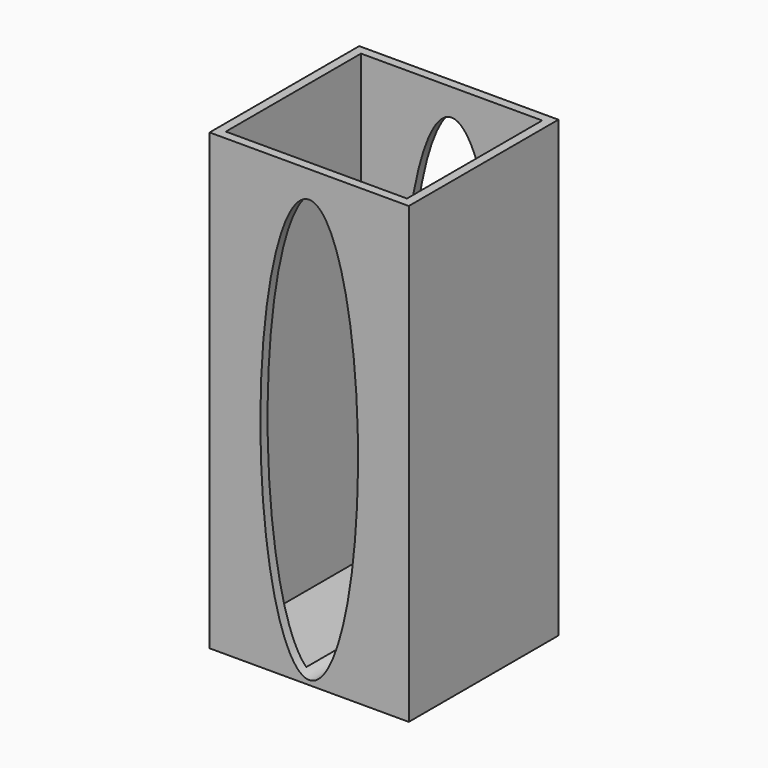
from build123d import *

# Parameters (mm, degrees)
F0_W     = 56.1930239201
F0_H     = 52.7560710907
F1_DEPTH = 128.1304806471
F2_T     = -2.54
F4_DEPTH = 87.9370719194
F5_DEPTH = 25.4
F6_DEPTH = 25.4


with BuildPart() as f1:
    # F0 (on Top) → F1 (new body)
    with BuildSketch(Plane.XY):
        Rectangle(F0_W, F0_H)
    extrude(amount=F1_DEPTH)

    # F2
    f2_openings = [f1.faces().sort_by_distance(p)[0] for p in [
        (0, 0, 128.130481),
    ]]
    offset(amount=F2_T, openings=f2_openings)

    # F3 (on face) → F4 (cut)
    with BuildSketch(Plane.XZ.offset(26.3780355453)):
        with BuildLine():
            add(Edge.make_bspline(
                [(0, 120.5544546247), (-23.8667058273, 120.5544546247), (-11.9333529136, 31.0888923705), (0, -58.3766698837), (11.9333529136, 31.0888923705), (23.8667058273, 120.5544546247), (0, 120.5544546247)],
                knots=[0, 0, 0, 2.0943951024, 2.0943951024, 4.1887902048, 4.1887902048, 6.2831853072, 6.2831853072, 6.2831853072], degree=2, weights=[1, 0.5, 1, 0.5, 1, 0.5, 1]))
        make_face()
    extrude(amount=-F4_DEPTH, mode=Mode.SUBTRACT)


with BuildPart() as f5:
    # F3 (on face) → F5 (new body)
    with BuildSketch(Plane.XZ.offset(26.3780355453)):
        with BuildLine():
            add(Edge.make_bspline(
                [(0, 120.5544546247), (-23.8667058273, 120.5544546247), (-11.9333529136, 31.0888923705), (0, -58.3766698837), (11.9333529136, 31.0888923705), (23.8667058273, 120.5544546247), (0, 120.5544546247)],
                knots=[0, 0, 0, 2.0943951024, 2.0943951024, 4.1887902048, 4.1887902048, 6.2831853072, 6.2831853072, 6.2831853072], degree=2, weights=[1, 0.5, 1, 0.5, 1, 0.5, 1]))
        make_face()
    extrude(amount=F5_DEPTH)

    # F6 (cut): a face of the model
    f6_faces = [f5.faces().sort_by_distance(p)[0] for p in [
        (0, -51.7780355453, 60.7660799004),
    ]]
    extrude(f6_faces, amount=-F6_DEPTH, mode=Mode.SUBTRACT)


solid = f1.part
